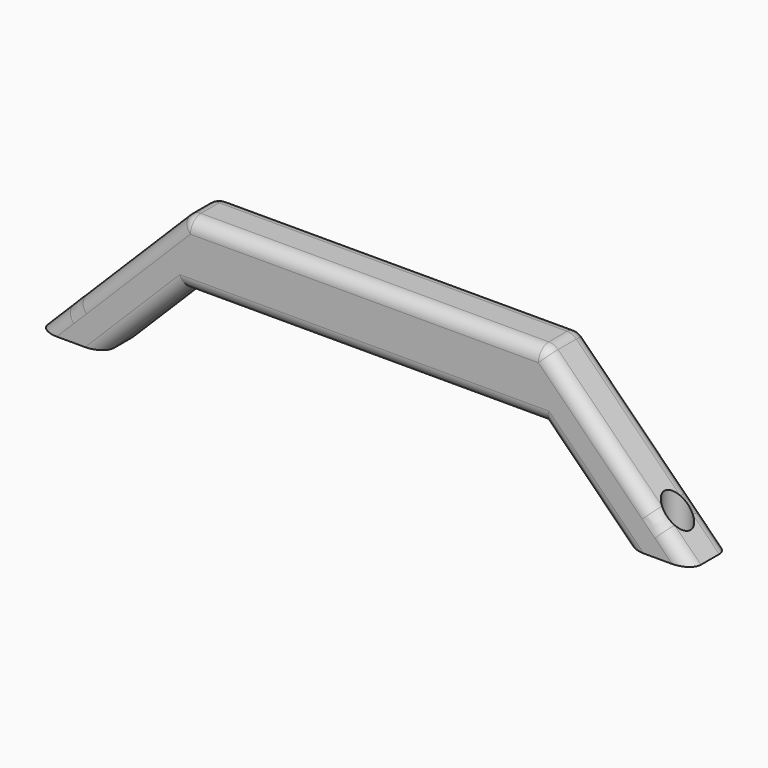
from build123d import *

# Parameters (mm, degrees)
CYLINDER_R        = 2.25
CYLINDER_DEPTH    = 10
CYLINDER001_R     = 4
CYLINDER001_DEPTH = 25
CYLINDER002_R     = 2.25
CYLINDER002_DEPTH = 10
CYLINDER003_R     = 4
CYLINDER003_DEPTH = 25
PAD_DEPTH         = 15
FILLET_R          = 4


with BuildPart() as cylinder:
    # Cylinder → Cylinder (new body)
    with BuildSketch(Plane.XY):
        Circle(CYLINDER_R)
    extrude(amount=CYLINDER_DEPTH)


with BuildPart() as fusion:
    # Cylinder001 → Cylinder001 (new body)
    with BuildSketch(Plane.XY.offset(2)):
        Circle(CYLINDER001_R)
    extrude(amount=CYLINDER001_DEPTH)

    # Fusion: union Cylinder
    add(cylinder.part)


with BuildPart() as fusion_1:
    # Fusion placement: moved
    add(fusion.part.moved(Location((90, -7.5, 0))))


with BuildPart() as cylinder002:
    # Cylinder002 → Cylinder002 (new body)
    with BuildSketch(Plane.XY):
        Circle(CYLINDER002_R)
    extrude(amount=CYLINDER002_DEPTH)


with BuildPart() as fusion002:
    # Cylinder003 → Cylinder003 (new body)
    with BuildSketch(Plane.XY.offset(2)):
        Circle(CYLINDER003_R)
    extrude(amount=CYLINDER003_DEPTH)

    # Fusion001: union Cylinder002
    add(cylinder002.part)


with BuildPart() as fusion002_1:
    # Fusion001 placement: moved
    add(fusion002.part.moved(Location((-90, -7.5, 0))))

    # Fusion002: union Fusion
    add(fusion_1.part)


with BuildPart() as fillet_body:
    # Sketch → Pad (new body)
    with BuildSketch(Plane.XZ):
        Polygon((-80, 0), (-55, 25), (55, 25), (80, 0), (100, 0), (55, 45), (-55, 45), (-100, 0), align=None)
    extrude(amount=PAD_DEPTH)

    # Cut: cut Fusion002
    add(fusion002_1.part, mode=Mode.SUBTRACT)

    # Fillet
    fillet_edges = [fillet_body.edges().sort_by_distance(p)[0] for p in [
        (-67.5, 0, 12.5),
        (-67.5, -15, 12.5),
        (0, 0, 25),
        (0, -15, 25),
        (67.5, 0, 12.5),
        (77.5, 0, 22.5),
        (0, 0, 45),
        (-77.5, 0, 22.5),
        (67.5, -15, 12.5),
        (77.5, -15, 22.5),
        (0, -15, 45),
        (-77.5, -15, 22.5),
        (-55, -7.5, 45),
        (55, -7.5, 45),
    ]]
    fillet(fillet_edges, radius=FILLET_R)


solid = fillet_body.part
